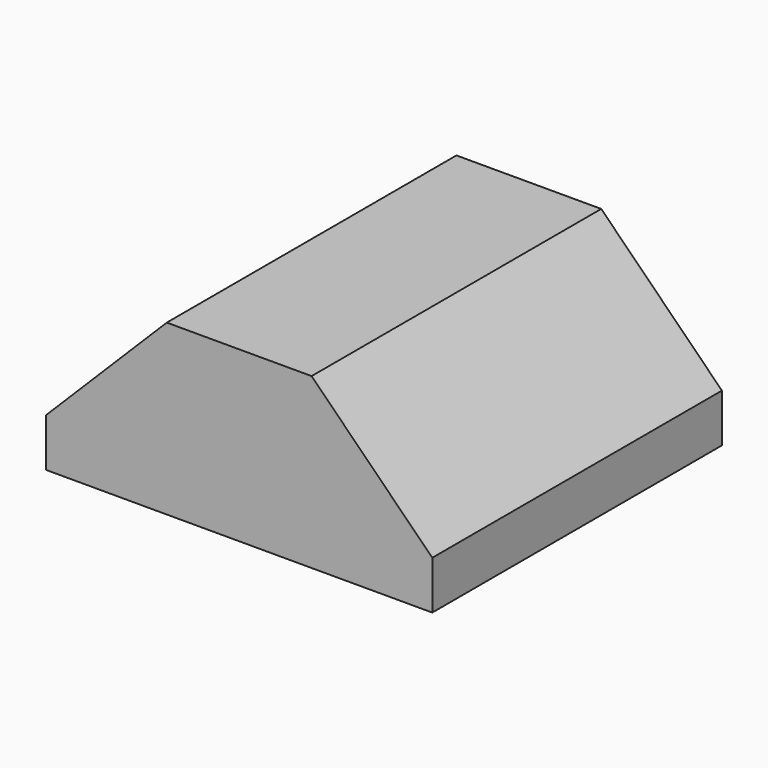
from build123d import *

# Parameters (mm, degrees)
SKETCH_W     = 3.2
SKETCH_H     = 3
PAD_DEPTH    = 1.4
CHAMFER_SIZE = 1


with BuildPart() as part:
    # Sketch → Pad (new body)
    with BuildSketch(Plane.XY):
        Rectangle(SKETCH_W, SKETCH_H)
    extrude(amount=PAD_DEPTH)

    # Chamfer
    chamfer_edges = [part.edges().sort_by_distance(p)[0] for p in [
        (-1.6, 0, 1.4),
        (1.6, 0, 1.4),
    ]]
    chamfer(chamfer_edges, length=CHAMFER_SIZE)


solid = part.part
